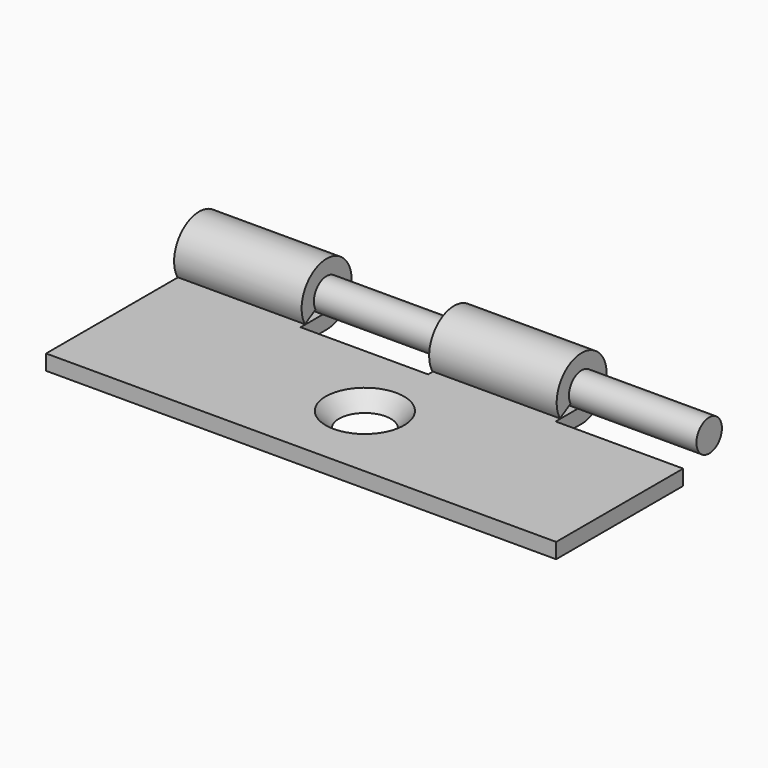
from build123d import *

# Parameters (mm, degrees)
F1_DEPTH       = 50.8
F2_W           = 12.7
F2_H           = 6.35
F3_DEPTH       = 3.1125
F3_DEPTH_BACK  = 3.1125
F5_D           = 3.6576
F5_CSINK_D     = 7.7978
F5_CSINK_ANGLE = 82
F6_R           = 1.5875
F7_DEPTH       = 50.8


with BuildPart() as f1:
    # F0 (on Right) → F1 (new body)
    with BuildSketch(Plane.YZ):
        with BuildLine():
            Line((-19.05, -3.1115), (0, -3.1115))
            ThreePointArc((0, -3.1115), (1.5633292388, 2.690247933), (-2.7033541721, -1.5405545982))
            Line((-2.7033541721, -1.5405545982), (-1.3792623327, -0.785997244))
            ThreePointArc((-1.3792623327, -0.785997244), (0.7976169586, 1.372575476), (0, -1.5875))
            Line((0, -1.5875), (-19.05, -1.5875))
            Line((-19.05, -1.5875), (-19.05, -3.1115))
        make_face()
    extrude(amount=F1_DEPTH)

    # F2 (on Top) → F3 (cut, two sides)
    with BuildSketch(Plane.XY) as f3_sk:
        with Locations((19.05, -0.0635)):
            Rectangle(F2_W, F2_H)
        with Locations((44.45, -0.0635)):
            Rectangle(F2_W, F2_H)
        with Locations((69.85, -0.0635)):
            Rectangle(F2_W, F2_H)
        with Locations((95.25, -0.0635)):
            Rectangle(F2_W, F2_H)
        with Locations((120.65, -0.0635)):
            Rectangle(F2_W, F2_H)
        with Locations((146.05, -0.0635)):
            Rectangle(F2_W, F2_H)
        with Locations((171.45, -0.0635)):
            Rectangle(F2_W, F2_H)
        with Locations((196.85, -0.0635)):
            Rectangle(F2_W, F2_H)
        with Locations((222.25, -0.0635)):
            Rectangle(F2_W, F2_H)
        with Locations((247.65, -0.0635)):
            Rectangle(F2_W, F2_H)
        with Locations((273.05, -0.0635)):
            Rectangle(F2_W, F2_H)
        with Locations((298.45, -0.0635)):
            Rectangle(F2_W, F2_H)
        with Locations((323.85, -0.0635)):
            Rectangle(F2_W, F2_H)
        with Locations((349.25, -0.0635)):
            Rectangle(F2_W, F2_H)
        with Locations((374.65, -0.0635)):
            Rectangle(F2_W, F2_H)
        with Locations((400.05, -0.0635)):
            Rectangle(F2_W, F2_H)
        with Locations((425.45, -0.0635)):
            Rectangle(F2_W, F2_H)
        with Locations((450.85, -0.0635)):
            Rectangle(F2_W, F2_H)
        with Locations((476.25, -0.0635)):
            Rectangle(F2_W, F2_H)
        with Locations((501.65, -0.0635)):
            Rectangle(F2_W, F2_H)
        with Locations((527.05, -0.0635)):
            Rectangle(F2_W, F2_H)
        with Locations((552.45, -0.0635)):
            Rectangle(F2_W, F2_H)
        with Locations((577.85, -0.0635)):
            Rectangle(F2_W, F2_H)
        with Locations((603.25, -0.0635)):
            Rectangle(F2_W, F2_H)
        with Locations((628.65, -0.0635)):
            Rectangle(F2_W, F2_H)
        with Locations((654.05, -0.0635)):
            Rectangle(F2_W, F2_H)
        with Locations((679.45, -0.0635)):
            Rectangle(F2_W, F2_H)
        with Locations((704.85, -0.0635)):
            Rectangle(F2_W, F2_H)
        with Locations((730.25, -0.0635)):
            Rectangle(F2_W, F2_H)
        with Locations((755.65, -0.0635)):
            Rectangle(F2_W, F2_H)
    extrude(amount=-F3_DEPTH, mode=Mode.SUBTRACT)
    extrude(f3_sk.sketch, amount=F3_DEPTH_BACK, mode=Mode.SUBTRACT)

    # F5 (through all)
    with Locations(Plane.XY.offset(-1.5875)):
        with Locations((25.4, -11.1125)):
            CounterSinkHole(F5_D / 2, F5_CSINK_D / 2, counter_sink_angle=F5_CSINK_ANGLE)


with BuildPart() as f7:
    # F6 (on Right) → F7 (new body, through all)
    with BuildSketch(Plane.YZ):
        Circle(F6_R)
    extrude(amount=F7_DEPTH)


solid = Compound([f1.part, f7.part])
